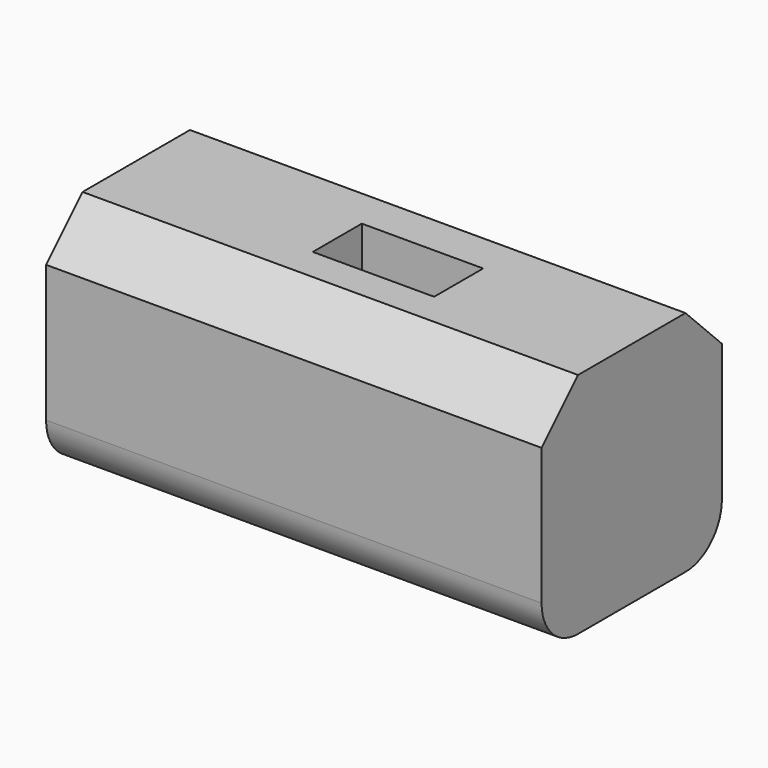
from build123d import *

# Parameters (mm, degrees)
F0_W     = 55.216648
F0_H     = 25.118159
F1_DEPTH = 25.4
F2_W     = 13.522635
F2_H     = 6.827985
F3_DEPTH = 25.4
F4_SIZE  = 5.08
F5_R     = 5.08


with BuildPart() as f1:
    # F0 (on Top) → F1 (new body)
    with BuildSketch(Plane.XY):
        with Locations((6.929148, 1.948819)):
            Rectangle(F0_W, F0_H)
    extrude(amount=F1_DEPTH)

    # F2 (on face) → F3 (cut)
    with BuildSketch(Plane.XY.offset(25.4)):
        with Locations((8.785194, 1.576447)):
            Rectangle(F2_W, F2_H)
    extrude(amount=-F3_DEPTH, mode=Mode.SUBTRACT)

    # F4
    f4_edges = [f1.edges().sort_by_distance(p)[0] for p in [
        (6.929148, 14.507899, 25.4),
        (6.929148, -10.61026, 25.4),
    ]]
    chamfer(f4_edges, length=F4_SIZE)

    # F5
    f5_edges = [f1.edges().sort_by_distance(p)[0] for p in [
        (6.929148, -10.61026, 0),
        (6.929148, 14.507899, 0),
    ]]
    fillet(f5_edges, radius=F5_R)


solid = f1.part
